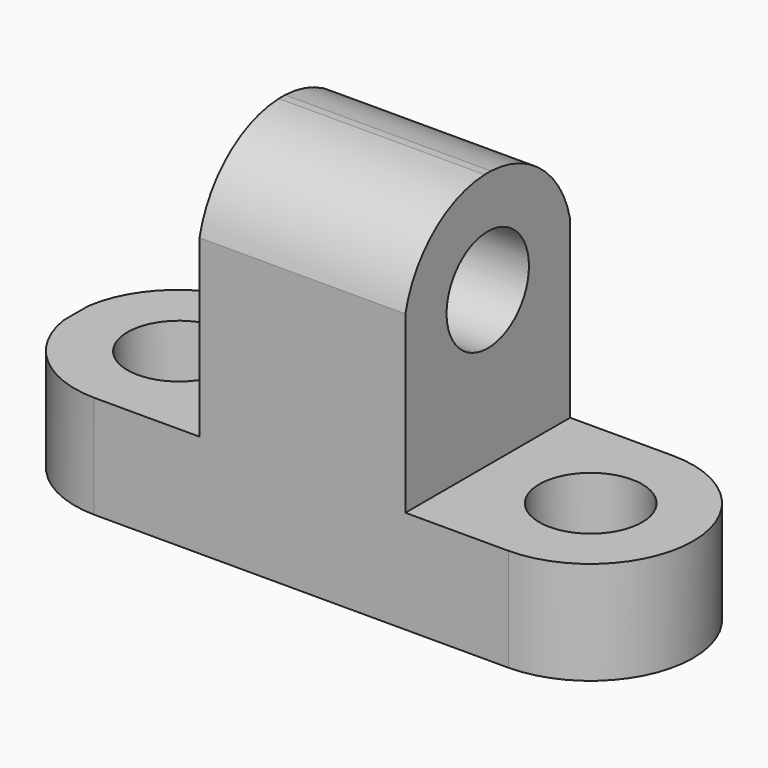
from build123d import *

# Parameters (mm, degrees)
F1_DEPTH = 25.4
F2_R     = 6.35
F3_DEPTH = 12.701
F4_R     = 6.35
F5_DEPTH = 12.701
F6_R     = 6.35
F7_DEPTH = 50.801


with BuildPart() as f1:
    # F0 (on Front) → F1 (new body)
    with BuildSketch(Plane.XZ):
        Polygon((-40.6033657491, 12.7), (-40.6033657491, 0), (35.5966342509, 0), (35.5966342509, 12.7), (10.1966342509, 12.7), (10.1966342509, 44.45), (-15.2033657491, 44.45), (-15.2033657491, 12.7), align=None)
    extrude(amount=F1_DEPTH)

    # F2 (on face) → F3 (cut, through all)
    with BuildSketch(Plane.XY.offset(12.7)):
        with Locations((-27.9033657491, -12.7)):
            Circle(F2_R)
        with BuildLine():
            ThreePointArc((-28.1965432725, -25.4), (-36.3759908602, -22.2910691257), (-40.6033657491, -14.6295995819))
            Line((-40.6033657491, -14.6295995819), (-40.6033657491, -25.4))
            Line((-40.6033657491, -25.4), (-28.1965432725, -25.4))
        make_face()
        with BuildLine():
            ThreePointArc((-40.6033657491, -10.7704004181), (-36.3759908602, -3.1089308743), (-28.1965432725, 0))
            Line((-28.1965432725, 0), (-40.6033657491, 0))
            Line((-40.6033657491, 0), (-40.6033657491, -10.7704004181))
        make_face()
    extrude(amount=-F3_DEPTH, mode=Mode.SUBTRACT)

    # F4 (on face) → F5 (cut, through all)
    with BuildSketch(Plane.XY.offset(12.7)):
        with Locations((22.8966342509, -12.7)):
            Circle(F4_R)
        with BuildLine():
            ThreePointArc((22.8966342509, 0), (35.5375180384, -12.7), (22.8966342509, -25.4))
            Line((22.8966342509, -25.4), (35.5966342509, -25.4))
            Line((35.5966342509, -25.4), (35.5966342509, 0))
            Line((35.5966342509, 0), (22.8966342509, 0))
        make_face()
    extrude(amount=-F5_DEPTH, mode=Mode.SUBTRACT)

    # F6 (on face) → F7 (cut, through all)
    with BuildSketch(Plane.YZ.offset(10.1966342509)):
        with BuildLine():
            ThreePointArc((-25.4, 34.3046766272), (-21.0173155482, 41.4558036008), (-13.1826918865, 44.45))
            Line((-13.1826918865, 44.45), (-25.4, 44.45))
            Line((-25.4, 44.45), (-25.4, 34.3046766272))
        make_face()
        with BuildLine():
            ThreePointArc((-12.2173081135, 44.45), (-4.3826844518, 41.4558036008), (0, 34.3046766272))
            Line((0, 34.3046766272), (0, 44.45))
            Line((0, 44.45), (-12.2173081135, 44.45))
        make_face()
        with Locations((-12.7, 31.75)):
            Circle(F6_R)
    extrude(amount=-F7_DEPTH, mode=Mode.SUBTRACT)


solid = f1.part
